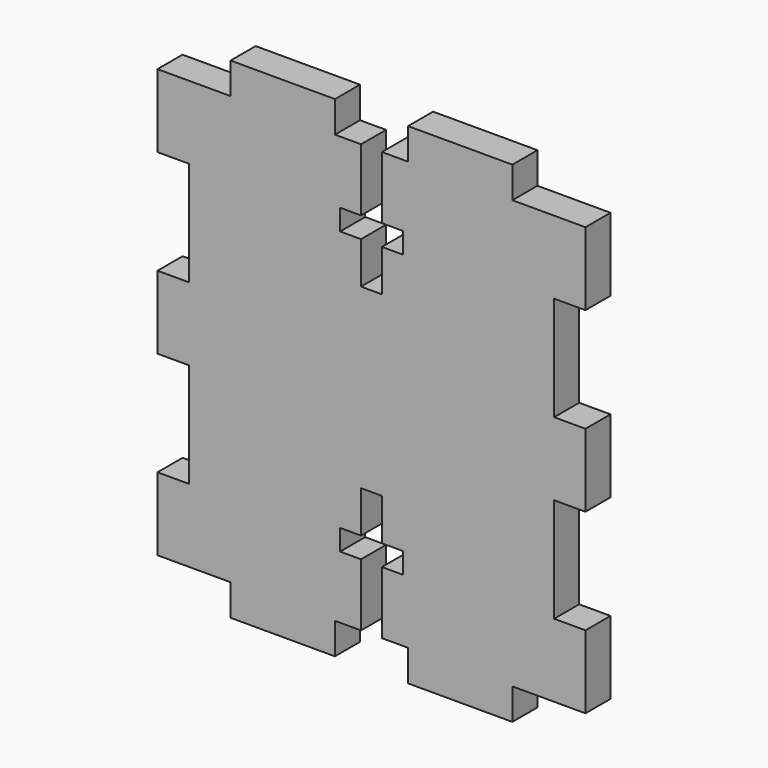
from build123d import *

# Parameters (mm, degrees)
F1_DEPTH = 3


with BuildPart() as f1:
    # F0 (on Front) → F1 (new body)
    with BuildSketch(Plane.XZ):
        Polygon((0, 3.5), (0, 0), (0, -3.5), (3, -3.5), (3, -13.5), (0, -13.5), (0, -20.5), (7, -20.5), (7, -23.5), (17, -23.5), (17, -20.5), (19.5, -20.5), (19.5, -14.5), (17.5, -14.5), (17.5, -12.5), (19.5, -12.5), (19.5, -8.5), (21.5, -8.5), (21.5, -12.5), (23.5, -12.5), (23.5, -14.5), (21.5, -14.5), (21.5, -20.5), (24, -20.5), (24, -23.5), (34, -23.5), (34, -20.5), (41, -20.5), (41, -13.5), (38, -13.5), (38, -3.5), (41, -3.5), (41, 0), (41, 3.5), (38, 3.5), (38, 13.5), (41, 13.5), (41, 20.5), (34, 20.5), (34, 23.5), (24, 23.5), (24, 20.5), (21.5, 20.5), (21.5, 14.5), (23.5, 14.5), (23.5, 12.5), (21.5, 12.5), (21.5, 8.5), (19.5, 8.5), (19.5, 12.5), (17.5, 12.5), (17.5, 14.5), (19.5, 14.5), (19.5, 20.5), (17, 20.5), (17, 23.5), (7, 23.5), (7, 20.5), (0, 20.5), (0, 13.5), (3, 13.5), (3, 3.5), align=None)
    extrude(amount=F1_DEPTH)


solid = f1.part
